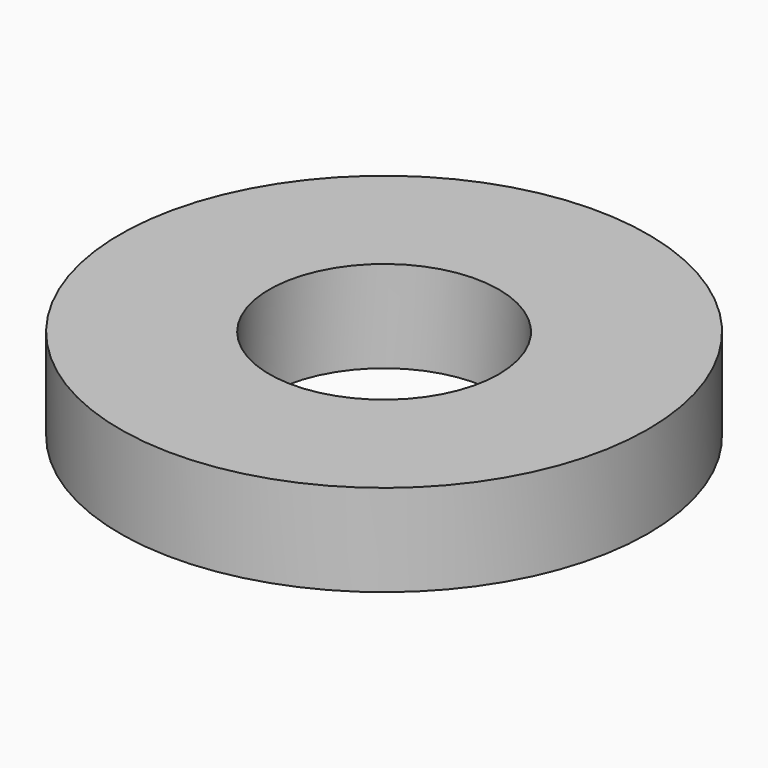
from build123d import *

# Parameters (mm, degrees)
SKETCH_R   = 11.5
SKETCH_R_2 = 5
PAD_DEPTH  = 4


with BuildPart() as part:
    # Sketch → Pad (new body)
    with BuildSketch(Plane.XY):
        Circle(SKETCH_R)
        Circle(SKETCH_R_2, mode=Mode.SUBTRACT)
    extrude(amount=PAD_DEPTH)


solid = part.part
